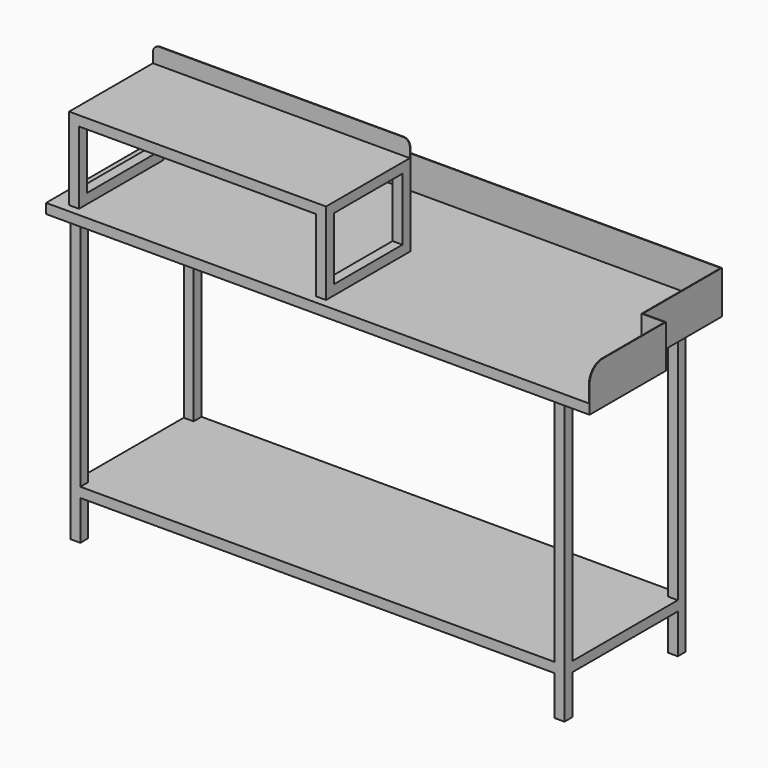
from build123d import *

# Parameters (mm, degrees)
F1_DEPTH  = 30
F3_DEPTH  = 100
F4_R      = 50
F5_W      = 30
F5_H      = 30
F6_DEPTH  = 865
F8_W      = 1500
F8_H      = 460
F9_DEPTH  = 30
F11_W     = 780
F11_H     = 320
F12_DEPTH = 30
F13_W     = 30
F13_H     = 30
F14_DEPTH = 220
F15_W     = 30
F15_H     = 30
F16_DEPTH = 260
F17_W     = 780
F17_H     = 2
F18_DEPTH = 50
F19_R     = 20


with BuildPart() as f1:
    # F0 (on Top) → F1 (new body)
    with BuildSketch(Plane.XY):
        Polygon((0, 520), (0, 0), (1650, 0), (1650, 290), (1580, 290), (1580, 590), (150, 590), (150, 520), align=None)
    extrude(amount=F1_DEPTH)

    # F2 (on face) → F3 (join)
    with BuildSketch(Plane.XY.offset(30)):
        Polygon((1648, 0), (1650, 0), (1650, 290), (1580, 290), (1580, 590), (150, 590), (150, 520), (0, 520), (0, 518), (152, 518), (152, 588), (1578, 588), (1578, 288), (1648, 288), align=None)
    extrude(amount=F3_DEPTH)

    # F4
    f4_edges = [f1.edges().sort_by_distance(p)[0] for p in [
        (0, 519, 130),
        (1649, 0, 130),
    ]]
    fillet(f4_edges, radius=F4_R)

    # F5 (on face) → F6 (join)
    with BuildSketch(Plane(origin=(0, 0, 0), x_dir=(1, 0, 0), z_dir=(0, 0, -1))):
        with Locations((65, -45)):
            Rectangle(F5_W, F5_H)
        with Locations((1535, -45)):
            Rectangle(F5_W, F5_H)
        with Locations((1535, -475)):
            Rectangle(F5_W, F5_H)
        with Locations((65, -475)):
            Rectangle(F5_W, F5_H)
    extrude(amount=F6_DEPTH)

    # F8 (on offset) → F9 (join)
    with BuildSketch(Plane(origin=(0, 0, -715), x_dir=(1, 0, 0), z_dir=(0, 0, -1))):
        with Locations((800, -260)):
            Rectangle(F8_W, F8_H)
    extrude(amount=F9_DEPTH)



with BuildPart() as f12:
    # F11 (on offset) → F12 (new body)
    with BuildSketch(Plane.XY.offset(280)):
        with Locations((440, 185)):
            Rectangle(F11_W, F11_H)
    extrude(amount=-F12_DEPTH)


with BuildPart() as f1_1:
    add(f1.part)

    add(f12.part)  # F14 merges F12
    # F13 (on face) → F14 (join, through all)
    with BuildSketch(Plane(origin=(0, 0, 250), x_dir=(1, 0, 0), z_dir=(0, 0, -1))):
        with Locations((65, -40)):
            Rectangle(F13_W, F13_H)
        with Locations((65, -330)):
            Rectangle(F13_W, F13_H)
        with Locations((815, -40)):
            Rectangle(F13_W, F13_H)
        with Locations((815, -330)):
            Rectangle(F13_W, F13_H)
    extrude(amount=F14_DEPTH)

    # F15 (on face) → F16 (join, through all)
    with BuildSketch(Plane.XZ.offset(-315)):
        with Locations((65, 45)):
            Rectangle(F15_W, F15_H)
        with Locations((815, 45)):
            Rectangle(F15_W, F15_H)
    extrude(amount=F16_DEPTH)

    # F17 (on face) → F18 (join)
    with BuildSketch(Plane.XY.offset(280)):
        with Locations((440, 344)):
            Rectangle(F17_W, F17_H)
    extrude(amount=F18_DEPTH)

    # F19
    f19_edges = [f1_1.edges().sort_by_distance(p)[0] for p in [
        (50, 344, 330),
        (830, 344, 330),
    ]]
    fillet(f19_edges, radius=F19_R)


solid = f1_1.part
